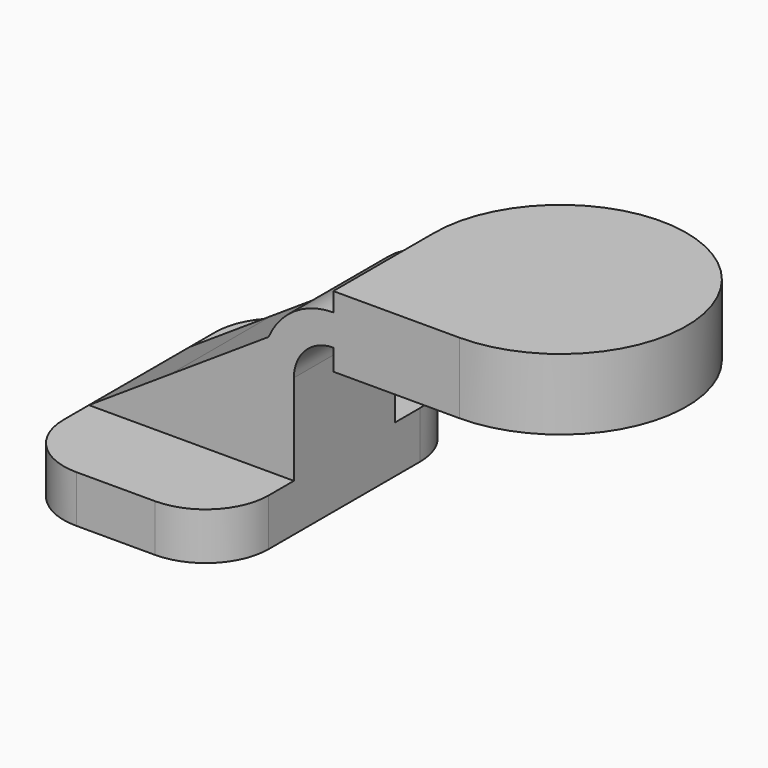
from build123d import *

# Parameters (mm, degrees)
F1_DEPTH  = 63.5
F0_W      = 15.1688941348
F0_H      = 12.481523478
F0_H_2    = 7.559076522
F0_H_3    = 8.5344
F2_DEPTH  = 25.4
F2_FACE_W = 50.8
F2_FACE_H = 28.575
F4_R      = 25.4
F5_R      = 25.4


with BuildPart() as f1:
    # F0 (on Front) → F1 (new body, symmetric)
    with BuildSketch(Plane.XZ):
        Polygon((28.793476522, 9.525), (-41.275, 9.525), (-41.275, -9.525), (41.275, -9.525), (41.275, 9.525), align=None)
    extrude(amount=F1_DEPTH, both=True)

    # F0 (on Front) → F2 (join, symmetric)
    with BuildSketch(Plane.XZ):
        with BuildLine():
            add(Edge.make_bspline(
                [(-41.275, 9.525), (-30.3388888889, 16.7340803864), (-19.4027777778, 23.9431607729), (-8.4666666667, 31.1522411593)],
                knots=[0, 0, 0, 0, 39.2953470054, 39.2953470054, 39.2953470054, 39.2953470054], degree=3))
            Line((-41.275, 9.525), (28.793476522, 9.525))
            Line((28.793476522, 9.525), (28.793476522, 46.0502))
            ThreePointArc((28.793476522, 46.0502), (29.3733625905, 51.7555341689), (31.0893036536, 57.2275221166))
            add(Edge.make_bspline(
                [(-8.4666666667, 31.1522411593), (4.7186567734, 39.8440014784), (17.9039802135, 48.5357617975), (31.0893036536, 57.2275221166)],
                knots=[39.2953470054, 39.2953470054, 39.2953470054, 39.2953470054, 86.6725046341, 86.6725046341, 86.6725046341, 86.6725046341], degree=3))
        make_face()
        Polygon((28.793476522, 9.525), (-41.275, 9.525), (-41.275, -9.525), (41.275, -9.525), (41.275, 9.525), align=None)
        with BuildLine():
            Line((28.793476522, 46.0502), (28.793476522, 9.525))
            Line((28.793476522, 9.525), (41.275, 9.525))
            Line((41.275, 9.525), (41.275, 46.0502))
            ThreePointArc((41.275, 46.0502), (45.9246798487, 57.2755201513), (57.15, 61.9252))
            Line((57.15, 61.9252), (57.15, 74.406723478))
            add(Edge.make_bspline(
                [(31.0893036536, 57.2275221166), (39.7762024357, 62.9539225704), (48.4631012179, 68.6803230242), (57.15, 74.406723478)],
                knots=[86.6725046341, 86.6725046341, 86.6725046341, 86.6725046341, 117.8860410162, 117.8860410162, 117.8860410162, 117.8860410162], degree=3))
            ThreePointArc((31.0893036536, 57.2275221166), (29.3733625905, 51.7555341689), (28.793476522, 46.0502))
        make_face()
        with BuildLine():
            ThreePointArc((57.15, 74.406723478), (41.543231809, 69.7255291506), (31.0893036536, 57.2275221166))
            add(Edge.make_bspline(
                [(31.0893036536, 57.2275221166), (39.7762024357, 62.9539225704), (48.4631012179, 68.6803230242), (57.15, 74.406723478)],
                knots=[86.6725046341, 86.6725046341, 86.6725046341, 86.6725046341, 117.8860410162, 117.8860410162, 117.8860410162, 117.8860410162], degree=3))
        make_face()
        with Locations((64.7344470674, 68.165961739)):
            Rectangle(F0_W, F0_H)
        with Locations((64.7344470674, 78.186261739)):
            Rectangle(F0_W, F0_H_2)
        with Locations((64.7344470674, 57.658)):
            Rectangle(F0_W, F0_H_3)
        Polygon((72.3188941348, 81.9658), (72.3188941348, 74.406723478), (72.3188941348, 61.9252), (72.3188941348, 53.3908), (107.95, 53.3908), (107.95, 81.9658), align=None)
    extrude(amount=F2_DEPTH, both=True)

    # F2_face (on face) → F3 (revolve)
    with BuildSketch(Plane(origin=(107.95, 0, 67.6783), x_dir=(0, 1, 0), z_dir=(1, 0, 0))):
        Rectangle(F2_FACE_W, F2_FACE_H)
    revolve(axis=Axis((107.95, 25.4, 67.6783), (0, 0, 1)))

    # F4
    f4_edges = [f1.edges().sort_by_distance(p)[0] for p in [
        (41.275, -63.5, 0),
        (-41.275, -63.5, 0),
    ]]
    fillet(f4_edges, radius=F4_R)

    # F5
    f5_edges = [f1.edges().sort_by_distance(p)[0] for p in [
        (-41.275, 63.5, 0),
        (41.275, 63.5, 0),
    ]]
    fillet(f5_edges, radius=F5_R)


solid = f1.part
